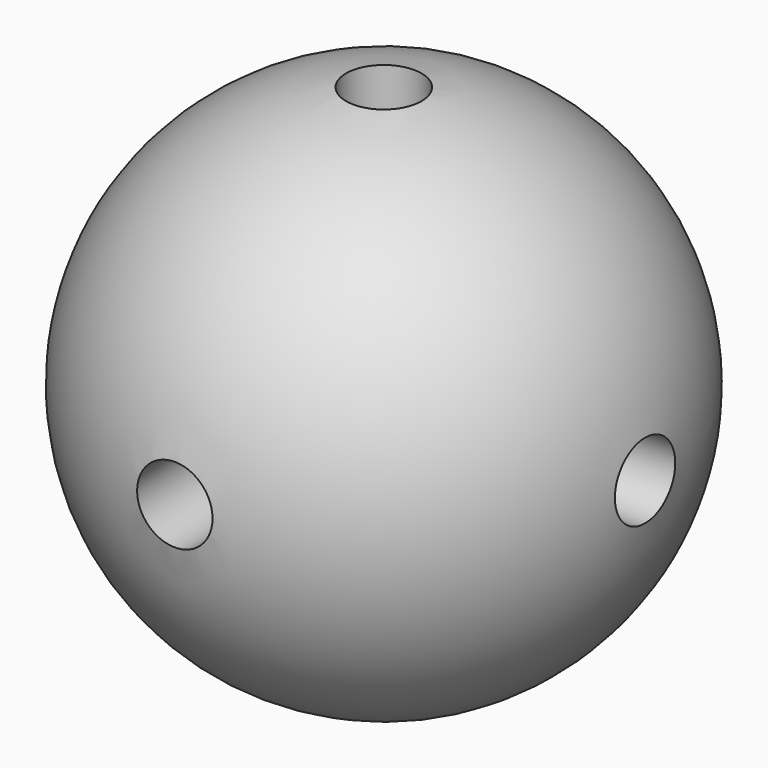
from build123d import *

# Parameters (mm, degrees)
F2_T      = -3
F4_D      = 3
F4_DEPTH  = 10.501
F6_D      = 3
F8_D      = 3
F8_DEPTH  = 10.501
F10_D     = 3
F12_D     = 3
F12_DEPTH = 10.501
F14_D     = 3


with BuildPart() as f1:
    # F0 (on Top) → F1 (revolve)
    with BuildSketch(Plane.XY):
        with BuildLine():
            ThreePointArc((10.5, 0), (0, 10.5), (-10.5, 0))
            Line((-10.5, 0), (10.5, 0))
        make_face()
    revolve(axis=Axis((0.3997717993, 0, 0), (1, 0, 0)))

    # F2 (hollow: no face is removed)
    offset(amount=F2_T, mode=Mode.SUBTRACT)

    # F4 (through all, one way)
    with BuildSketch(Plane.XY):
        with Locations((0, 0)):
            Circle(F4_D / 2)
    extrude(amount=-F4_DEPTH, mode=Mode.SUBTRACT)

    # F6 (through all)
    with Locations(Plane(origin=(0, 0, 0), x_dir=(1, 0, 0), z_dir=(0, 0, -1))):
        with Locations((0, 0)):
            Hole(F6_D / 2)

    # F8 (through all, one way)
    with BuildSketch(Plane.YZ):
        with Locations((0, 0)):
            Circle(F8_D / 2)
    extrude(amount=-F8_DEPTH, mode=Mode.SUBTRACT)

    # F10 (through all)
    with Locations(Plane(origin=(0, 0, 0), x_dir=(0, 1, 0), z_dir=(-1, 0, 0))):
        with Locations((0, 0)):
            Hole(F10_D / 2)

    # F12 (through all, one way)
    with BuildSketch(Plane.XZ):
        with Locations((0, 0)):
            Circle(F12_D / 2)
    extrude(amount=-F12_DEPTH, mode=Mode.SUBTRACT)

    # F14 (through all)
    with Locations(Plane(origin=(0, 0, 0), x_dir=(1, 0, 0), z_dir=(0, 1, 0))):
        with Locations((0, 0)):
            Hole(F14_D / 2)


solid = f1.part
